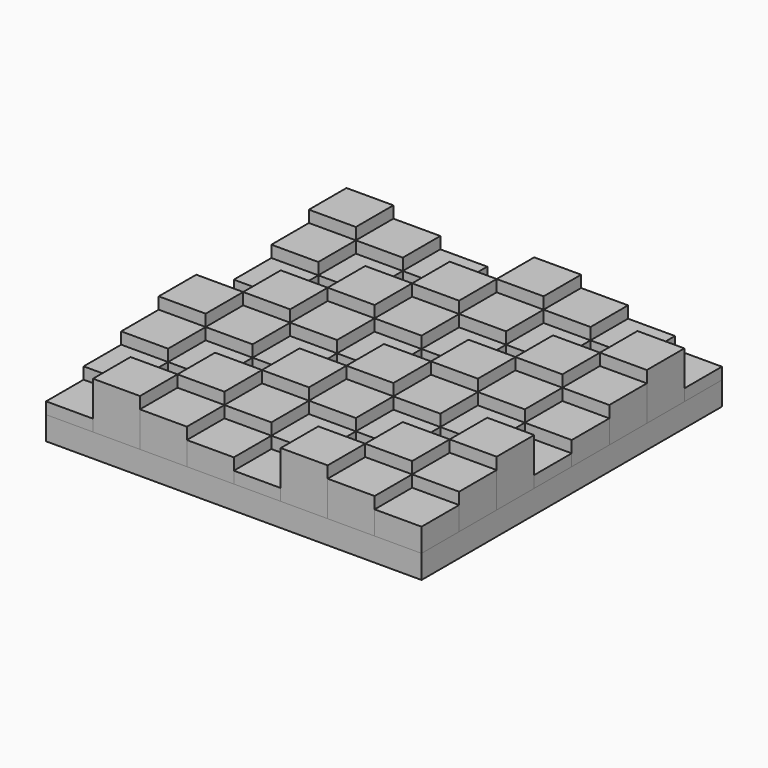
from build123d import *

# Parameters (mm, degrees)
F0_W      = 406.4
F0_H      = 406.4
F1_DEPTH  = 25.4
F3_DEPTH  = 50.8
F4_DEPTH  = 50.8
F5_DEPTH  = 50.8
F2_W      = 50.8
F2_H      = 12.7
F6_DEPTH  = 50.8
F10_DEPTH = 50.8
F11_DEPTH = 50.8
F12_DEPTH = 50.8
F13_DEPTH = 50.8
F15_DEPTH = 50.8
F16_DEPTH = 50.8
F14_W     = 50.8
F14_H     = 12.7
F17_DEPTH = 50.8
F18_DEPTH = 50.8
F19_DEPTH = 50.8
F20_DEPTH = 50.8
F21_DEPTH = 50.8
F22_DEPTH = 50.8
F24_DEPTH = 50.8
F23_W     = 50.8
F23_H     = 12.7
F25_DEPTH = 50.8
F23_H_2   = 38.1
F26_W     = 50.8
F26_H     = 12.7
F27_DEPTH = 50.8
F28_DEPTH = 50.8
F26_H_2   = 25.4
F32_W     = 50.8
F32_H     = 25.4
F37_DEPTH = 50.8
F34_W     = 50.8
F34_H     = 12.7
F36_W     = 50.8
F36_H     = 12.7
F33_W     = 50.8
F33_H     = 12.7
F33_H_2   = 38.1
F32_H_2   = 12.7
F38_DEPTH = 50.8


with BuildPart() as f1:
    # F0 (on Top) → F1 (new body)
    with BuildSketch(Plane.XY):
        Rectangle(F0_W, F0_H)
    extrude(amount=F1_DEPTH)


with BuildPart() as f3:
    # F2 (on Right) → F3 (new body)
    with BuildSketch(Plane.YZ):
        Polygon((152.4, 25.4), (203.2, 25.4), (203.2, 76.2), (152.4, 76.2), (152.4, 63.5), align=None)
    extrude(amount=F3_DEPTH)


with BuildPart() as f4:
    # F2 (on Right) → F4 (new body)
    with BuildSketch(Plane.YZ):
        Polygon((101.6, 25.4), (152.4, 25.4), (152.4, 63.5), (101.6, 63.5), (101.6, 50.8), align=None)
    extrude(amount=F4_DEPTH)


with BuildPart() as f5:
    # F2 (on Right) → F5 (new body)
    with BuildSketch(Plane.YZ):
        Polygon((50.8, 25.4), (101.6, 25.4), (101.6, 50.8), (50.8, 50.8), (50.8, 38.1), align=None)
    extrude(amount=F5_DEPTH)


with BuildPart() as f6:
    # F2 (on Right) → F6 (new body)
    with BuildSketch(Plane.YZ):
        with Locations((25.4, 31.75)):
            Rectangle(F2_W, F2_H)
    extrude(amount=F6_DEPTH)


with BuildPart() as f10:
    # F2 (on Right) → F10 (new body)
    with BuildSketch(Plane.YZ):
        Polygon((-50.8, 25.4), (0, 25.4), (0, 38.1), (0, 76.2), (-50.8, 76.2), (-50.8, 63.5), align=None)
    extrude(amount=F10_DEPTH)


with BuildPart() as f11:
    # F2 (on Right) → F11 (new body)
    with BuildSketch(Plane.YZ):
        Polygon((-101.6, 25.4), (-50.8, 25.4), (-50.8, 63.5), (-101.6, 63.5), (-101.6, 50.8), align=None)
    extrude(amount=F11_DEPTH)


with BuildPart() as f12:
    # F2 (on Right) → F12 (new body)
    with BuildSketch(Plane.YZ):
        with Locations((-177.8, 31.75)):
            Rectangle(F2_W, F2_H)
    extrude(amount=F12_DEPTH)


with BuildPart() as f13:
    # F2 (on Right) → F13 (new body)
    with BuildSketch(Plane.YZ):
        Polygon((-152.4, 25.4), (-101.6, 25.4), (-101.6, 50.8), (-152.4, 50.8), (-152.4, 38.1), align=None)
    extrude(amount=F13_DEPTH)


with BuildPart() as f15:
    # F14 (on offset) → F15 (new body)
    with BuildSketch(Plane.YZ.offset(50.8)):
        Polygon((152.4, 25.4), (203.2, 25.4), (203.2, 63.5), (152.4, 63.5), (152.4, 50.8), align=None)
    extrude(amount=F15_DEPTH)


with BuildPart() as f16:
    # F14 (on offset) → F16 (new body)
    with BuildSketch(Plane.YZ.offset(50.8)):
        Polygon((101.6, 25.4), (152.4, 25.4), (152.4, 50.8), (101.6, 50.8), (101.6, 38.1), align=None)
    extrude(amount=F16_DEPTH)


with BuildPart() as f17:
    # F14 (on offset) → F17 (new body)
    with BuildSketch(Plane.YZ.offset(50.8)):
        with Locations((76.2, 31.75)):
            Rectangle(F14_W, F14_H)
    extrude(amount=F17_DEPTH)


with BuildPart() as f18:
    # F14 (on offset) → F18 (new body)
    with BuildSketch(Plane.YZ.offset(50.8)):
        Polygon((0, 25.4), (50.8, 25.4), (50.8, 38.1), (50.8, 76.2), (0, 76.2), (0, 63.5), align=None)
    extrude(amount=F18_DEPTH)


with BuildPart() as f19:
    # F14 (on offset) → F19 (new body)
    with BuildSketch(Plane.YZ.offset(50.8)):
        Polygon((-50.8, 25.4), (0, 25.4), (0, 63.5), (-50.8, 63.5), (-50.8, 50.8), align=None)
    extrude(amount=F19_DEPTH)


with BuildPart() as f20:
    # F14 (on offset) → F20 (new body)
    with BuildSketch(Plane.YZ.offset(50.8)):
        Polygon((-101.6, 25.4), (-50.8, 25.4), (-50.8, 50.8), (-101.6, 50.8), (-101.6, 38.1), align=None)
    extrude(amount=F20_DEPTH)


with BuildPart() as f21:
    # F14 (on offset) → F21 (new body)
    with BuildSketch(Plane.YZ.offset(50.8)):
        with Locations((-127, 31.75)):
            Rectangle(F14_W, F14_H)
    extrude(amount=F21_DEPTH)


with BuildPart() as f22:
    # F14 (on offset) → F22 (new body)
    with BuildSketch(Plane.YZ.offset(50.8)):
        Polygon((-203.2, 25.4), (-152.4, 25.4), (-152.4, 38.1), (-152.4, 76.2), (-203.2, 76.2), align=None)
    extrude(amount=F22_DEPTH)


with BuildPart() as f24:
    # F23 (on offset) → F24 (new body)
    with BuildSketch(Plane.YZ.offset(101.6)):
        Polygon((152.4, 25.4), (203.2, 25.4), (203.2, 50.8), (152.4, 50.8), (152.4, 38.1), align=None)
    extrude(amount=F24_DEPTH)


with BuildPart() as f24b:
    # F23 (on offset) → F24, piece 2 (new body)
    with BuildSketch(Plane.YZ.offset(101.6)):
        Polygon((50.8, 25.4), (101.6, 25.4), (101.6, 38.1), (101.6, 76.2), (50.8, 76.2), (50.8, 63.5), align=None)
    extrude(amount=F24_DEPTH)


with BuildPart() as f24c:
    # F23 (on offset) → F24, piece 3 (new body)
    with BuildSketch(Plane.YZ.offset(101.6)):
        Polygon((-50.8, 25.4), (0, 25.4), (0, 50.8), (-50.8, 50.8), (-50.8, 38.1), align=None)
    extrude(amount=F24_DEPTH)


with BuildPart() as f24d:
    # F23 (on offset) → F24, piece 4 (new body)
    with BuildSketch(Plane.YZ.offset(101.6)):
        Polygon((-152.4, 25.4), (-101.6, 25.4), (-101.6, 38.1), (-101.6, 76.2), (-152.4, 76.2), (-152.4, 63.5), align=None)
    extrude(amount=F24_DEPTH)


with BuildPart() as f25:
    # F23 (on offset) → F25 (new body)
    with BuildSketch(Plane.YZ.offset(101.6)):
        with Locations((127, 31.75)):
            Rectangle(F23_W, F23_H)
    extrude(amount=F25_DEPTH)


with BuildPart() as f25b:
    # F23 (on offset) → F25, piece 2 (new body)
    with BuildSketch(Plane.YZ.offset(101.6)):
        Polygon((0, 25.4), (50.8, 25.4), (50.8, 63.5), (0, 63.5), (0, 50.8), align=None)
    extrude(amount=F25_DEPTH)


with BuildPart() as f25c:
    # F23 (on offset) → F25, piece 3 (new body)
    with BuildSketch(Plane.YZ.offset(101.6)):
        with Locations((-76.2, 31.75)):
            Rectangle(F23_W, F23_H)
    extrude(amount=F25_DEPTH)


with BuildPart() as f25d:
    # F23 (on offset) → F25, piece 4 (new body)
    with BuildSketch(Plane.YZ.offset(101.6)):
        with Locations((-177.8, 44.45)):
            Rectangle(F23_W, F23_H_2)
    extrude(amount=F25_DEPTH)


with BuildPart() as f27:
    # F26 (on offset) → F27 (new body)
    with BuildSketch(Plane.YZ.offset(152.4)):
        with Locations((177.8, 31.75)):
            Rectangle(F26_W, F26_H)
    extrude(amount=F27_DEPTH)


with BuildPart() as f27b:
    # F26 (on offset) → F27, piece 2 (new body)
    with BuildSketch(Plane.YZ.offset(152.4)):
        Polygon((50.8, 25.4), (101.6, 25.4), (101.6, 63.5), (50.8, 63.5), (50.8, 50.8), align=None)
    extrude(amount=F27_DEPTH)


with BuildPart() as f27c:
    # F26 (on offset) → F27, piece 3 (new body)
    with BuildSketch(Plane.YZ.offset(152.4)):
        with Locations((-25.4, 31.75)):
            Rectangle(F26_W, F26_H)
    extrude(amount=F27_DEPTH)


with BuildPart() as f27d:
    # F26 (on offset) → F27, piece 4 (new body)
    with BuildSketch(Plane.YZ.offset(152.4)):
        Polygon((-152.4, 25.4), (-101.6, 25.4), (-101.6, 63.5), (-152.4, 63.5), (-152.4, 50.8), align=None)
    extrude(amount=F27_DEPTH)


with BuildPart() as f28:
    # F26 (on offset) → F28 (new body)
    with BuildSketch(Plane.YZ.offset(152.4)):
        Polygon((101.6, 25.4), (152.4, 25.4), (152.4, 38.1), (152.4, 76.2), (101.6, 76.2), (101.6, 63.5), align=None)
    extrude(amount=F28_DEPTH)


with BuildPart() as f28b:
    # F26 (on offset) → F28, piece 2 (new body)
    with BuildSketch(Plane.YZ.offset(152.4)):
        Polygon((0, 25.4), (50.8, 25.4), (50.8, 50.8), (0, 50.8), (0, 38.1), align=None)
    extrude(amount=F28_DEPTH)


with BuildPart() as f28c:
    # F26 (on offset) → F28, piece 3 (new body)
    with BuildSketch(Plane.YZ.offset(152.4)):
        Polygon((-101.6, 25.4), (-50.8, 25.4), (-50.8, 38.1), (-50.8, 76.2), (-101.6, 76.2), (-101.6, 63.5), align=None)
    extrude(amount=F28_DEPTH)


with BuildPart() as f28d:
    # F26 (on offset) → F28, piece 4 (new body)
    with BuildSketch(Plane.YZ.offset(152.4)):
        with Locations((-177.8, 38.1)):
            Rectangle(F26_W, F26_H_2)
    extrude(amount=F28_DEPTH)


with BuildPart() as f37:
    # F36 (on offset) + F33 (on offset) + F34 (on offset) + F32 (on offset) → F37 (new body)
    with BuildSketch(Plane(origin=(-203.2, 0, 0), x_dir=(0, -1, 0), z_dir=(-1, 0, 0))):
        Polygon((-203.2, 76.2), (-203.2, 25.4), (-152.4, 25.4), (-152.4, 63.5), (-152.4, 76.2), align=None)
        Polygon((-101.6, 50.8), (-101.6, 25.4), (-50.8, 25.4), (-50.8, 38.1), (-50.8, 50.8), align=None)
        Polygon((0, 38.1), (0, 25.4), (50.8, 25.4), (50.8, 63.5), (50.8, 76.2), (0, 76.2), align=None)
        Polygon((101.6, 50.8), (101.6, 25.4), (152.4, 25.4), (152.4, 38.1), (152.4, 50.8), align=None)
    with BuildSketch(Plane.YZ.offset(-101.6)):
        Polygon((152.4, 25.4), (203.2, 25.4), (203.2, 50.8), (152.4, 50.8), (152.4, 38.1), align=None)
        Polygon((50.8, 25.4), (101.6, 25.4), (101.6, 38.1), (101.6, 76.2), (50.8, 76.2), (50.8, 63.5), align=None)
        Polygon((-50.8, 25.4), (0, 25.4), (0, 50.8), (-50.8, 50.8), (-50.8, 38.1), align=None)
        Polygon((-152.4, 25.4), (-101.6, 25.4), (-101.6, 38.1), (-101.6, 76.2), (-152.4, 76.2), (-152.4, 63.5), align=None)
    with BuildSketch(Plane.YZ.offset(-152.4)):
        Polygon((101.6, 25.4), (152.4, 25.4), (152.4, 50.8), (101.6, 50.8), (101.6, 38.1), align=None)
        Polygon((0, 25.4), (50.8, 25.4), (50.8, 38.1), (50.8, 76.2), (0, 76.2), (0, 63.5), align=None)
        Polygon((-101.6, 25.4), (-50.8, 25.4), (-50.8, 50.8), (-101.6, 50.8), (-101.6, 38.1), align=None)
        Polygon((-203.2, 25.4), (-152.4, 25.4), (-152.4, 38.1), (-152.4, 76.2), (-203.2, 76.2), align=None)
    with BuildSketch(Plane.YZ.offset(-50.8)):
        Polygon((101.6, 25.4), (152.4, 25.4), (152.4, 38.1), (152.4, 76.2), (101.6, 76.2), (101.6, 63.5), align=None)
        Polygon((0, 25.4), (50.8, 25.4), (50.8, 50.8), (0, 50.8), (0, 38.1), align=None)
        Polygon((-101.6, 25.4), (-50.8, 25.4), (-50.8, 38.1), (-50.8, 76.2), (-101.6, 76.2), (-101.6, 63.5), align=None)
        with Locations((-177.8, 38.1)):
            Rectangle(F32_W, F32_H)
    extrude(amount=-F37_DEPTH, dir=(-1, 0, 0))


with BuildPart() as f38:
    # F34 (on offset) + F36 (on offset) + F33 (on offset) + F32 (on offset) → F38 (new body)
    with BuildSketch(Plane.YZ.offset(-152.4)):
        Polygon((152.4, 25.4), (203.2, 25.4), (203.2, 63.5), (152.4, 63.5), (152.4, 50.8), align=None)
        with Locations((76.2, 31.75)):
            Rectangle(F34_W, F34_H)
        Polygon((-50.8, 25.4), (0, 25.4), (0, 63.5), (-50.8, 63.5), (-50.8, 50.8), align=None)
        with Locations((-127, 31.75)):
            Rectangle(F34_W, F34_H)
    with BuildSketch(Plane(origin=(-203.2, 0, 0), x_dir=(0, -1, 0), z_dir=(-1, 0, 0))):
        Polygon((-152.4, 63.5), (-152.4, 25.4), (-101.6, 25.4), (-101.6, 50.8), (-101.6, 63.5), align=None)
        with Locations((-25.4, 31.75)):
            Rectangle(F36_W, F36_H)
        Polygon((50.8, 63.5), (50.8, 25.4), (101.6, 25.4), (101.6, 50.8), (101.6, 63.5), align=None)
        with Locations((177.8, 31.75)):
            Rectangle(F36_W, F36_H)
    with BuildSketch(Plane.YZ.offset(-101.6)):
        with Locations((127, 31.75)):
            Rectangle(F33_W, F33_H)
        Polygon((0, 25.4), (50.8, 25.4), (50.8, 63.5), (0, 63.5), (0, 50.8), align=None)
        with Locations((-76.2, 31.75)):
            Rectangle(F33_W, F33_H)
        with Locations((-177.8, 44.45)):
            Rectangle(F33_W, F33_H_2)
    with BuildSketch(Plane.YZ.offset(-50.8)):
        Polygon((-152.4, 25.4), (-101.6, 25.4), (-101.6, 63.5), (-152.4, 63.5), (-152.4, 50.8), align=None)
        with Locations((-25.4, 31.75)):
            Rectangle(F32_W, F32_H_2)
        Polygon((50.8, 25.4), (101.6, 25.4), (101.6, 63.5), (50.8, 63.5), (50.8, 50.8), align=None)
        with Locations((177.8, 31.75)):
            Rectangle(F32_W, F32_H_2)
    extrude(amount=F38_DEPTH, dir=(1, 0, 0))


solid = Compound([f1.part, f3.part, f4.part, f5.part, f6.part, f10.part, f11.part, f12.part, f13.part, f15.part, f16.part, f17.part, f18.part, f19.part, f20.part, f21.part, f22.part, f24.part, f24b.part, f24c.part, f24d.part, f25.part, f25b.part, f25c.part, f25d.part, f27.part, f27b.part, f27c.part, f27d.part, f28.part, f28b.part, f28c.part, f28d.part, f37.part, f38.part])
